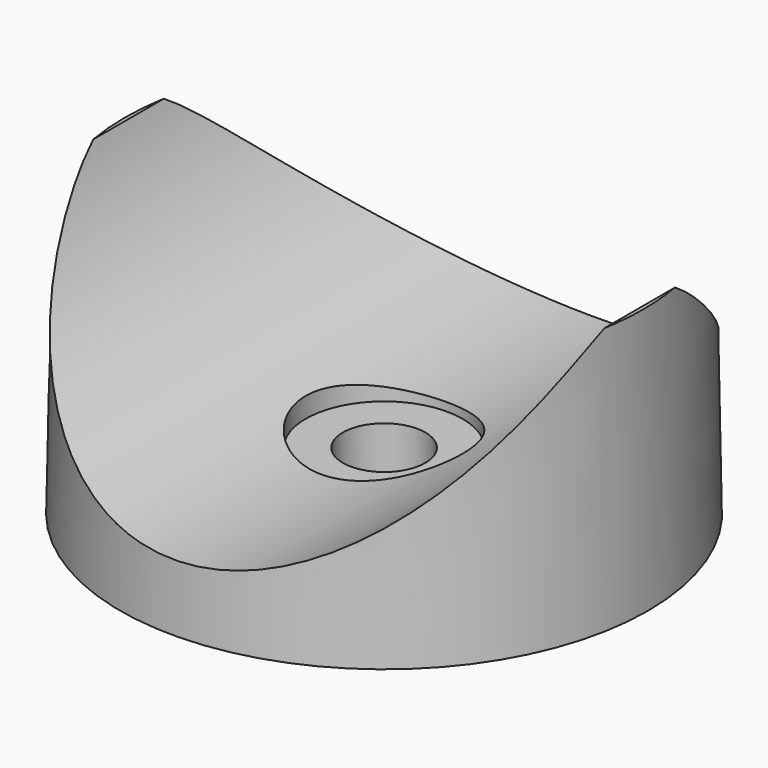
from build123d import *

# Parameters (mm, degrees)
F0_R     = 16
F1_DEPTH = 16
F1_TAPER = 1
F2_R     = 16
F3_DEPTH = 16
F4_R     = 2.5
F5_DEPTH = 5
F7_R     = 4.75
F8_DEPTH = 1.5


with BuildPart() as f1:
    # F0 (on Top) → F1 (new body)
    with BuildSketch(Plane.XY):
        Circle(F0_R)
    extrude(amount=F1_DEPTH, taper=F1_TAPER)

    # F2 (on Front) → F3 (cut, symmetric)
    with BuildSketch(Plane.XZ):
        with Locations((0, 20)):
            Circle(F2_R)
    extrude(amount=F3_DEPTH, both=True, mode=Mode.SUBTRACT)

    # F4 (on face) → F5 (cut)
    with BuildSketch(Plane(origin=(0, 0, 0), x_dir=(1, 0, 0), z_dir=(0, 0, -1))):
        Circle(F4_R)
    extrude(amount=-F5_DEPTH, mode=Mode.SUBTRACT)

    # F7 (on offset) → F8 (cut)
    with BuildSketch(Plane.XY.offset(5)):
        Circle(F7_R)
    extrude(amount=-F8_DEPTH, mode=Mode.SUBTRACT)


solid = f1.part
